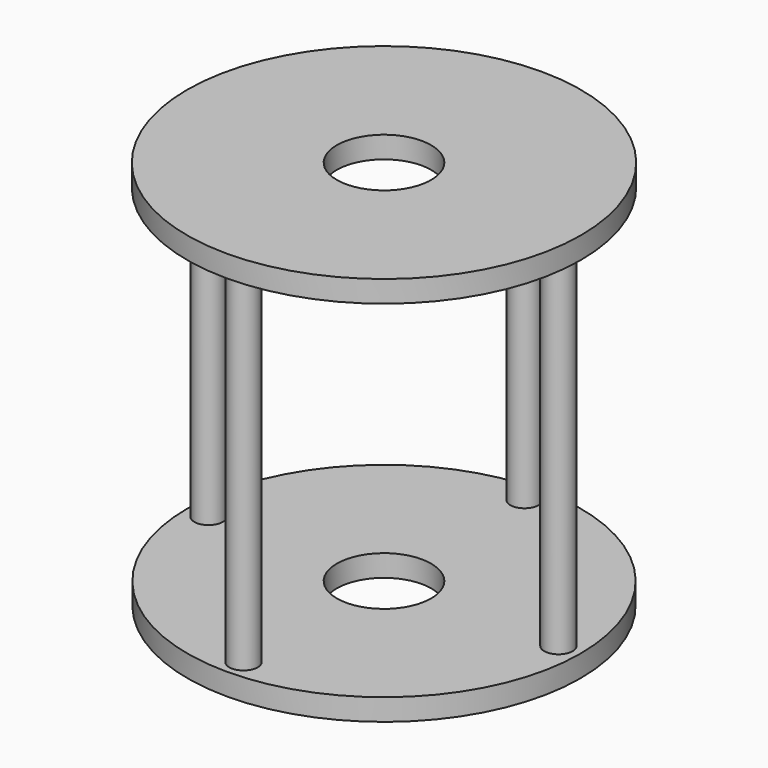
from build123d import *

# Parameters (mm, degrees)
F0_R     = 27.09856
F1_DEPTH = 3
F2_R     = 1.957464
F3_DEPTH = 50.8
F5_R     = 27.161268
F6_DEPTH = 3
F8_D     = 13
F8_2_D   = 13


with BuildPart() as f1:
    # F0 (on Top) → F1 (new body)
    with BuildSketch(Plane.XY):
        Circle(F0_R)
    extrude(amount=F1_DEPTH)

    # F2 (on face) → F3 (join)
    with BuildSketch(Plane.XY.offset(3)):
        with Locations((0, 24.214765)):
            Circle(F2_R)
        with Locations((0, -24.214765)):
            Circle(F2_R)
        with Locations((-24.122693, -0.092071)):
            Circle(F2_R)
        with Locations((24.122693, -0.092071)):
            Circle(F2_R)
    extrude(amount=F3_DEPTH)

    # F8 (through all)
    with Locations(Plane.XY.offset(53.8)):
        with Locations((0, 0)):
            Hole(F8_D / 2)


with BuildPart() as f6:
    # F5 (on offset) → F6 (new body)
    with BuildSketch(Plane.XY.offset(50.8)):
        Circle(F5_R)
    extrude(amount=F6_DEPTH)

    # F8#2 (through all)
    with Locations(Plane.XY.offset(53.8)):
        with Locations((0, 0)):
            Hole(F8_2_D / 2)


solid = Compound([f1.part, f6.part])
